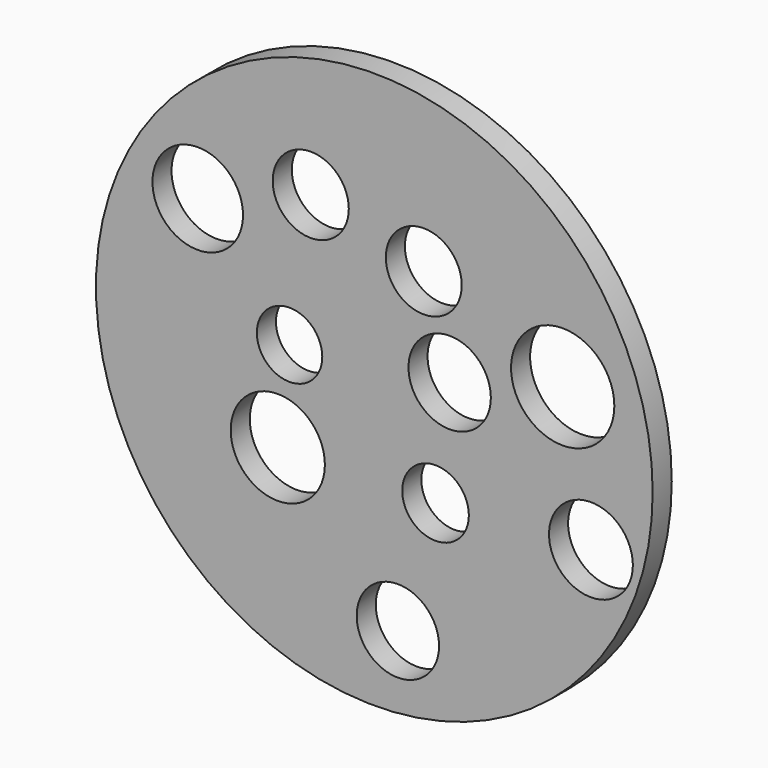
from build123d import *

# Parameters (mm, degrees)
F0_R     = 35
F1_DEPTH = 3
F2_R     = 4.782875
F2_R_2   = 6.492939
F2_R_3   = 4.112894
F2_R_4   = 4.186818
F2_R_5   = 4.773706
F2_R_6   = 5.921053
F2_R_7   = 5.694688
F2_R_8   = 5.271071
F2_R_9   = 5.178805
F2_R_10  = 5.178808
F3_DEPTH = 25


with BuildPart() as f1:
    # F0 (on Front) → F1 (new body)
    with BuildSketch(Plane.XZ):
        with Locations((7.993422, 16.578948)):
            Circle(F0_R)
    extrude(amount=F1_DEPTH)

    # F2 (on face) → F3 (cut)
    with BuildSketch(Plane.XZ.offset(3)):
        with Locations((0, 35.526317)):
            Circle(F2_R)
        with Locations((31.67763, 24.572369)):
            Circle(F2_R_2)
        with Locations((-2.664474, 18.059211)):
            Circle(F2_R_3)
        with Locations((15.69079, 6.513158)):
            Circle(F2_R_4)
        with Locations((14.210526, 31.677634)):
            Circle(F2_R_5)
        with Locations((-4.144737, 6.217105)):
            Circle(F2_R_6)
        with Locations((-14.210528, 30.493423)):
            Circle(F2_R_7)
        with Locations((35.230268, 7.697369)):
            Circle(F2_R_8)
        with Locations((10.953947, -9.177632)):
            Circle(F2_R_9)
        with Locations((17.467108, 20.427631)):
            Circle(F2_R_10)
    extrude(amount=-F3_DEPTH, mode=Mode.SUBTRACT)


solid = f1.part
